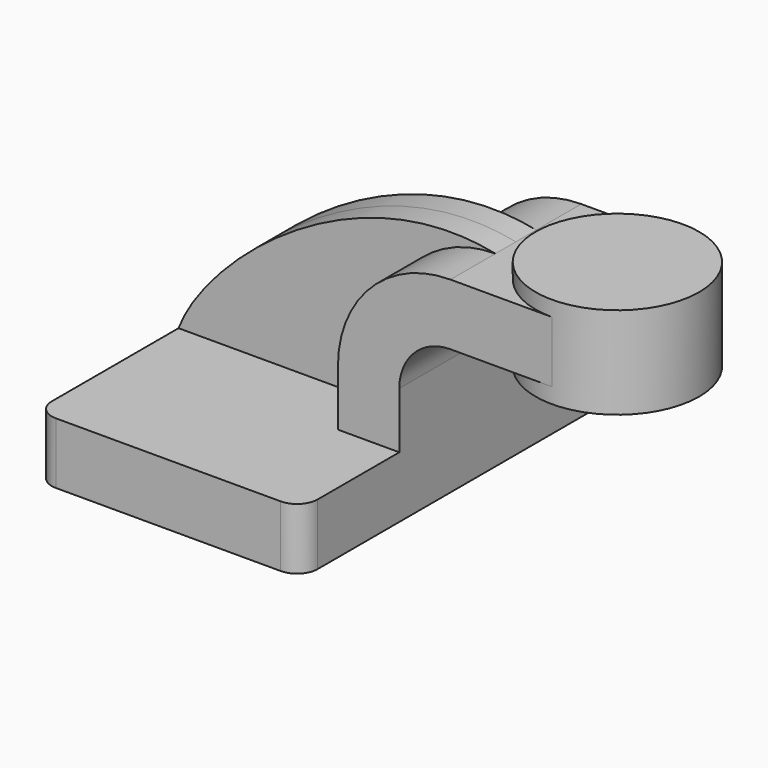
from build123d import *

# Parameters (mm, degrees)
F1_DEPTH = 63.5
F0_W     = 25.4
F0_H     = 19.05
F2_DEPTH = 25.4
F3_DEPTH = 7.9375
F5_R     = 6.35


with BuildPart() as f1:
    # F0 (on Front) → F1 (new body, symmetric)
    with BuildSketch(Plane.XZ):
        Polygon((-41.275, 9.525), (-41.275, -9.525), (41.275, -9.525), (41.275, 9.525), (22.225, 9.525), align=None)
    extrude(amount=F1_DEPTH, both=True)

    # F0 (on Front) → F2 (join, symmetric)
    with BuildSketch(Plane.XZ):
        with Locations((75.9968, 52.4002)):
            Rectangle(F0_W, F0_H)
        with BuildLine():
            Line((22.225, 9.525), (41.275, 9.525))
            Line((41.275, 9.525), (41.275, 27.0002))
            ThreePointArc((41.275, 27.0002), (45.9246798487, 38.2255201513), (57.15, 42.8752))
            Line((57.15, 42.8752), (63.2968, 42.8752))
            Line((63.2968, 42.8752), (63.2968, 61.9252))
            Line((63.2968, 61.9252), (57.15, 61.9252))
            ThreePointArc((57.15, 61.9252), (32.4542956671, 51.6959043329), (22.225, 27.0002))
            Line((22.225, 27.0002), (22.225, 9.525))
        make_face()
        with Locations((75.9968, 52.4002)):
            Rectangle(F0_W, F0_H)
    extrude(amount=F2_DEPTH, both=True)

    # F0 (on Front) → F3 (join, symmetric)
    with BuildSketch(Plane.XZ):
        with BuildLine():
            add(Edge.make_bspline(
                [(-41.275, 9.525), (-32.9106339345, 31.9569138645), (12.5016221459, 71.1940555749), (57.15, 61.9252)],
                knots=[0, 0, 0, 0, 111.5045361635, 111.5045361635, 111.5045361635, 111.5045361635], degree=3))
            Line((-41.275, 9.525), (22.225, 9.525))
            Line((22.225, 9.525), (22.225, 27.0002))
            ThreePointArc((22.225, 27.0002), (32.4542956671, 51.6959043329), (57.15, 61.9252))
        make_face()
    extrude(amount=F3_DEPTH, both=True)

    # F0 (on Front) → F4 (revolve)
    with BuildSketch(Plane.XZ):
        Polygon((88.6968, 66.675), (88.6968, 61.9252), (88.6968, 42.8752), (88.6968, 38.1), (114.0968, 38.1), (114.0968, 66.675), align=None)
    revolve(axis=Axis((88.6968, 0, 52.3875), (0, 0, 1)))

    # F5
    f5_edges = [f1.edges().sort_by_distance(p)[0] for p in [
        (41.275, 63.5, 0),
        (-41.275, -63.5, 0),
        (-41.275, 63.5, 0),
        (41.275, -63.5, 0),
    ]]
    fillet(f5_edges, radius=F5_R)


solid = f1.part
